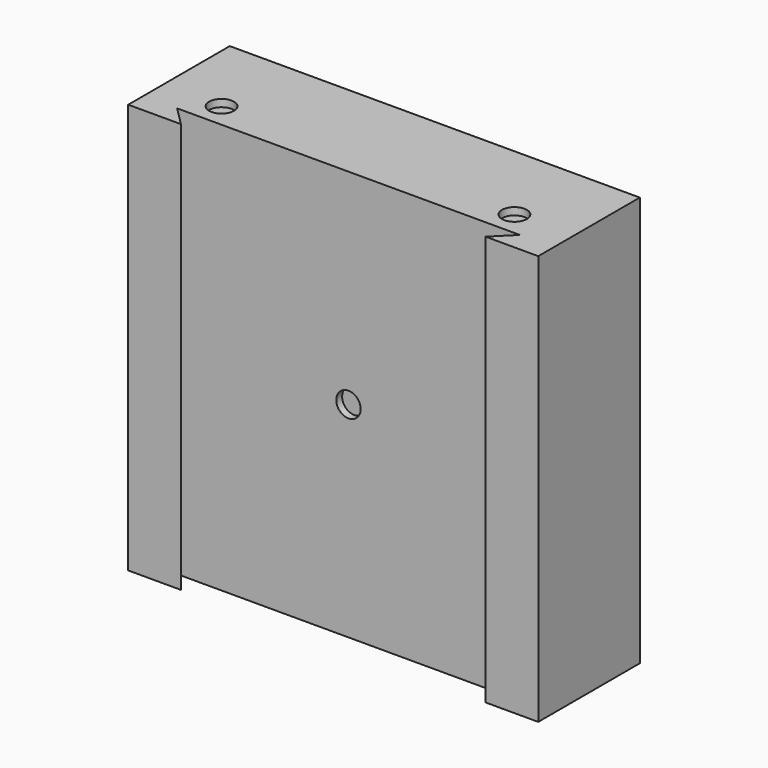
from build123d import *

# Parameters (mm, degrees)
PAD_DEPTH       = 42
SKETCH001_R     = 2.5
POCKET_DEPTH    = 1.5
SKETCH002_W     = 76.5
SKETCH002_H     = 76.5
POCKET001_DEPTH = 19
SKETCH003_R     = 2.55
POCKET002_DEPTH = 1.5


with BuildPart() as part:
    # Sketch (on XY_Plane of Origin) → Pad (new body, symmetric)
    with BuildSketch(Plane.XY):
        Polygon((-42, 22.1), (-42, -3.9), (-31.199999, -3.9), (-35.1, 0), (0, 0), (0, 22.1), align=None)
    extrude(amount=PAD_DEPTH, both=True)

    # Mirrored: part across YZ


with BuildPart() as part_1:
    add(part.part)
    add(part.part.mirror(Plane.YZ))

    # Sketch001 (on Face10 of Mirrored) → Pocket (cut)
    with BuildSketch(Plane.XZ):
        Circle(SKETCH001_R)
    extrude(amount=-POCKET_DEPTH, mode=Mode.SUBTRACT)

    # Sketch002 (on Face2 of Pocket) → Pocket001 (cut)
    with BuildSketch(Plane(origin=(0, 22.1, 0), x_dir=(-1, 0, 0), z_dir=(0, 1, 0))):
        Rectangle(SKETCH002_W, SKETCH002_H)
    extrude(amount=-POCKET001_DEPTH, mode=Mode.SUBTRACT)

    # Sketch003 (on Face5 of Pocket001) → Pocket002 (cut)
    with BuildSketch(Plane.XY.offset(42)):
        with Locations((-30, 5)):
            Circle(SKETCH003_R)
        with Locations((30, 5)):
            Circle(SKETCH003_R)
    pocket002 = extrude(amount=-POCKET002_DEPTH, mode=Mode.SUBTRACT)

    # Mirrored001: Pocket002 across XY
    add(pocket002.mirror(Plane.XY), mode=Mode.SUBTRACT)


solid = part_1.part
